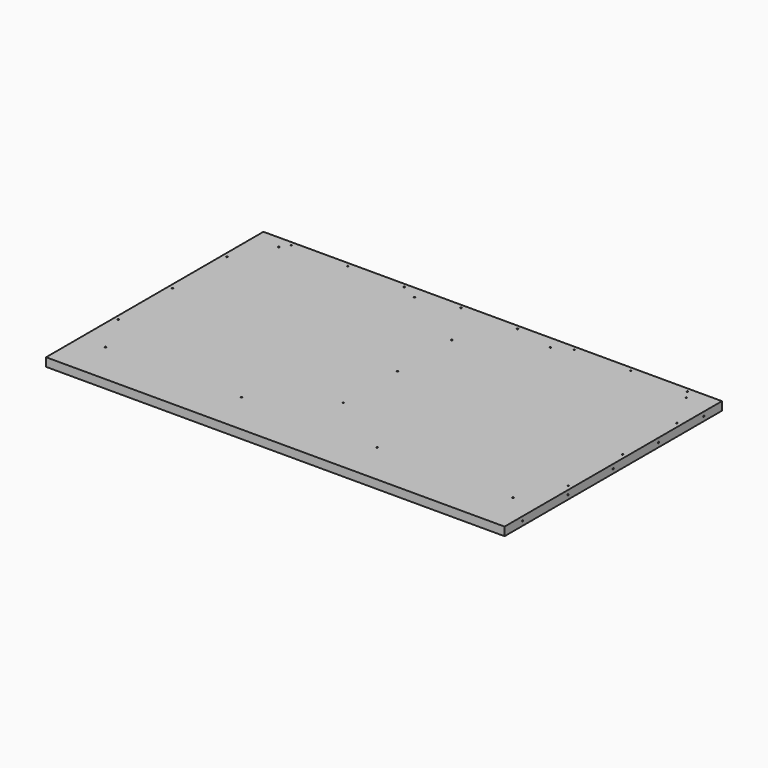
from build123d import *

# Parameters (mm, degrees)
F0_W     = 1028.7
F0_H     = 19.05
F1_DEPTH = 609.6
F2_R     = 1.5875
F3_DEPTH = 19.051
F5_R     = 1.5875
F6_DEPTH = 1028.701
F4_R     = 1.5875
F7_DEPTH = 19.051
F8_R     = 1.5875
F9_DEPTH = 19.051


with BuildPart() as f1:
    # F0 (on Front) → F1 (new body)
    with BuildSketch(Plane.XZ):
        with Locations((514.35, 9.525)):
            Rectangle(F0_W, F0_H)
    extrude(amount=-F1_DEPTH)

    # F2 (on Top) → F3 (cut, through all)
    with BuildSketch(Plane.XY):
        with Locations((9.525, 495.3)):
            Circle(F2_R)
        with Locations((9.525, 342.9)):
            Circle(F2_R)
        with Locations((9.525, 190.5)):
            Circle(F2_R)
        with Locations((514.3373, 495.3)):
            Circle(F2_R)
        with Locations((514.3373, 342.9)):
            Circle(F2_R)
        with Locations((514.3373, 190.5)):
            Circle(F2_R)
        with Locations((1019.1496, 495.3)):
            Circle(F2_R)
        with Locations((1019.1496, 342.9)):
            Circle(F2_R)
        with Locations((1019.1496, 190.5)):
            Circle(F2_R)
    extrude(amount=F3_DEPTH, mode=Mode.SUBTRACT)

    # F5 (on Right) → F6 (cut, through all)
    with BuildSketch(Plane.YZ):
        with Locations((50.8, 9.525)):
            Circle(F5_R)
        with Locations((177.8, 9.525)):
            Circle(F5_R)
        with Locations((304.8, 9.525)):
            Circle(F5_R)
        with Locations((431.8, 9.525)):
            Circle(F5_R)
        with Locations((558.8, 9.525)):
            Circle(F5_R)
    extrude(amount=F6_DEPTH, mode=Mode.SUBTRACT)

    # F4 (on Top) → F7 (cut, through all)
    with BuildSketch(Plane.XY):
        with Locations((57.15, 581.025)):
            Circle(F4_R)
        with Locations((57.15, 95.25)):
            Circle(F4_R)
        with Locations((361.95, 581.025)):
            Circle(F4_R)
        with Locations((361.95, 95.25)):
            Circle(F4_R)
        with Locations((666.75, 581.025)):
            Circle(F4_R)
        with Locations((666.75, 95.25)):
            Circle(F4_R)
        with Locations((971.55, 581.025)):
            Circle(F4_R)
        with Locations((971.55, 95.25)):
            Circle(F4_R)
    extrude(amount=F7_DEPTH, mode=Mode.SUBTRACT)

    # F8 (on Top) → F9 (cut, through all)
    with BuildSketch(Plane.XY):
        with Locations((69.85, 600.075)):
            Circle(F8_R)
        with Locations((196.85, 600.075)):
            Circle(F8_R)
        with Locations((323.85, 600.075)):
            Circle(F8_R)
        with Locations((450.85, 600.075)):
            Circle(F8_R)
        with Locations((577.85, 600.075)):
            Circle(F8_R)
        with Locations((704.85, 600.075)):
            Circle(F8_R)
        with Locations((831.85, 600.075)):
            Circle(F8_R)
        with Locations((958.85, 600.075)):
            Circle(F8_R)
    extrude(amount=F9_DEPTH, mode=Mode.SUBTRACT)


solid = f1.part
